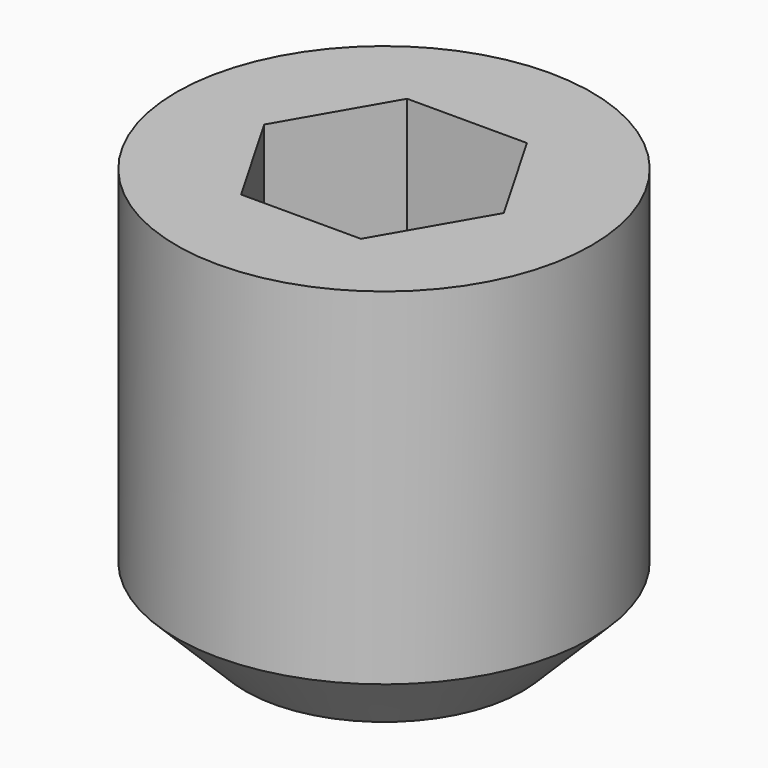
from build123d import *

# Parameters (mm, degrees)
SKETCH016_W     = 1.5
SKETCH016_H     = 3
CHAMFER001_SIZE = 0.5
POCKET010_DEPTH = 1.5


with BuildPart() as part:
    # Sketch016 (on Face1 of Binder001) → Revolution001 (revolve)
    with BuildSketch(Plane(origin=(0, -5.5, 0), x_dir=(-1, 0, 0), z_dir=(0, 1, 0))):
        with Locations((-0.75, 20.796372)):
            Rectangle(SKETCH016_W, SKETCH016_H)
    revolve(axis=Axis((0, -5.5, 0), (0, 0, 1)))

    # Chamfer001
    chamfer001_edges = [part.edges().sort_by_distance(p)[0] for p in [
        (-1.5, -5.5, 19.296372),
    ]]
    chamfer(chamfer001_edges, length=CHAMFER001_SIZE)

    # Sketch017 (on Face4 of Chamfer001) → Pocket010 (cut)
    with BuildSketch(Plane.XY.offset(22.296372)):
        Polygon((-0.433013, -4.75), (-0.866025, -5.5), (-0.433013, -6.25), (0.433013, -6.25), (0.866025, -5.5), (0.433013, -4.75), align=None)
    extrude(amount=-POCKET010_DEPTH, mode=Mode.SUBTRACT)


solid = part.part
